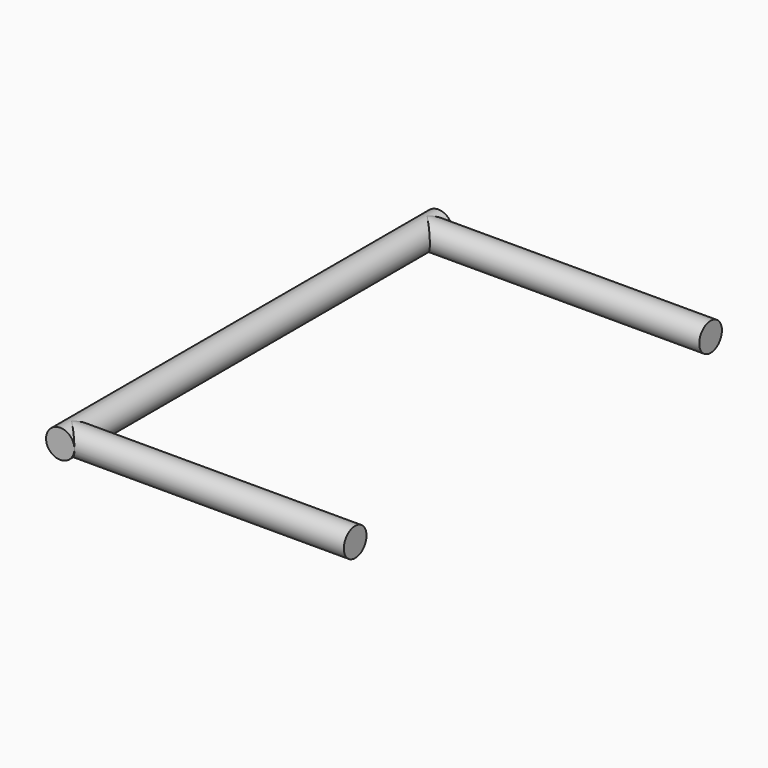
from build123d import *

# Parameters (mm, degrees)
CYLINDER020_R           = 3
CYLINDER020_DEPTH       = 60
CYLINDER020_PITCH_ANGLE = 90
CYLINDER019_R           = 3
CYLINDER019_DEPTH       = 100
CYLINDER019_ROLL_ANGLE  = 90
CYLINDER021_R           = 3
CYLINDER021_DEPTH       = 60
CYLINDER021_PITCH_ANGLE = 90


with BuildPart() as cylinder001:
    # Cylinder020 → Cylinder020 (new body)
    with BuildSketch(Plane.XY):
        Circle(CYLINDER020_R)
    extrude(amount=CYLINDER020_DEPTH)


with BuildPart() as cylinder001_1:
    # Cylinder020 pitch: moved
    add(cylinder001.part.rotate(Axis((0, 0, 0), (0, 1, 0)), CYLINDER020_PITCH_ANGLE))


with BuildPart() as cylinder001_2:
    # Cylinder020 placement: moved
    add(cylinder001_1.part.moved(Location((-50, -3, 0))))


with BuildPart() as fusion006:
    # Cylinder019 → Cylinder019 (new body)
    with BuildSketch(Plane.XY):
        Circle(CYLINDER019_R)
    extrude(amount=CYLINDER019_DEPTH)


with BuildPart() as fusion006_1:
    # Cylinder019 roll: moved
    add(fusion006.part.rotate(Axis((0, 0, 0), (1, 0, 0)), CYLINDER019_ROLL_ANGLE))


with BuildPart() as fusion006_2:
    # Cylinder019 placement: moved
    add(fusion006_1.part.moved(Location((-50, 0, 0))))

    # Fusion006: union Cylinder001
    add(cylinder001_2.part)


with BuildPart() as handle_left:
    # Cylinder021 → Cylinder021 (new body)
    with BuildSketch(Plane.XY):
        Circle(CYLINDER021_R)
    extrude(amount=CYLINDER021_DEPTH)


with BuildPart() as handle_left_1:
    # Cylinder021 pitch: moved
    add(handle_left.part.rotate(Axis((0, 0, 0), (0, 1, 0)), CYLINDER021_PITCH_ANGLE))


with BuildPart() as handle_left_2:
    # Cylinder021 placement: moved
    add(handle_left_1.part.moved(Location((-50, -97, 0))))

    # Fusion007: union Fusion006
    add(fusion006_2.part)


with BuildPart() as handle_left_3:
    # Fusion007 placement: moved
    add(handle_left_2.part.moved(Location((0, 165, 230))))


solid = handle_left_3.part
